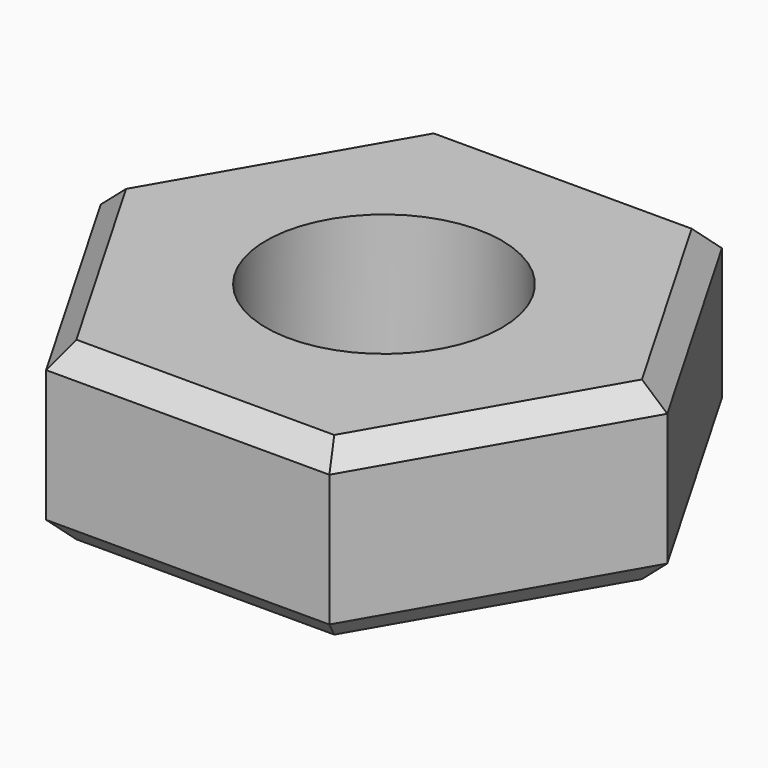
from build123d import *

# Parameters (mm, degrees)
F0_R     = 2.0447
F1_DEPTH = 3.048
F2_SIZE  = 0.381


with BuildPart() as f1:
    # F0 (on Top) → F1 (new body)
    with BuildSketch(Plane.XY):
        Polygon((-2.456337, -4.2545), (2.456337, -4.2545), (4.912673, 0), (2.456337, 4.2545), (-2.456337, 4.2545), (-4.912673, 0), align=None)
        Circle(F0_R, mode=Mode.SUBTRACT)
    extrude(amount=F1_DEPTH)

    # F2
    f2_edges = [f1.edges().sort_by_distance(p)[0] for p in [
        (3.684505, -2.12725, 3.048),
        (0, -4.2545, 3.048),
        (-3.684505, -2.12725, 3.048),
        (-3.684505, 2.12725, 3.048),
        (0, 4.2545, 3.048),
        (3.684505, 2.12725, 3.048),
        (0, -4.2545, 0),
        (-3.684505, -2.12725, 0),
        (3.684505, -2.12725, 0),
        (3.684505, 2.12725, 0),
        (0, 4.2545, 0),
        (-3.684505, 2.12725, 0),
    ]]
    chamfer(f2_edges, length=F2_SIZE)


solid = f1.part
